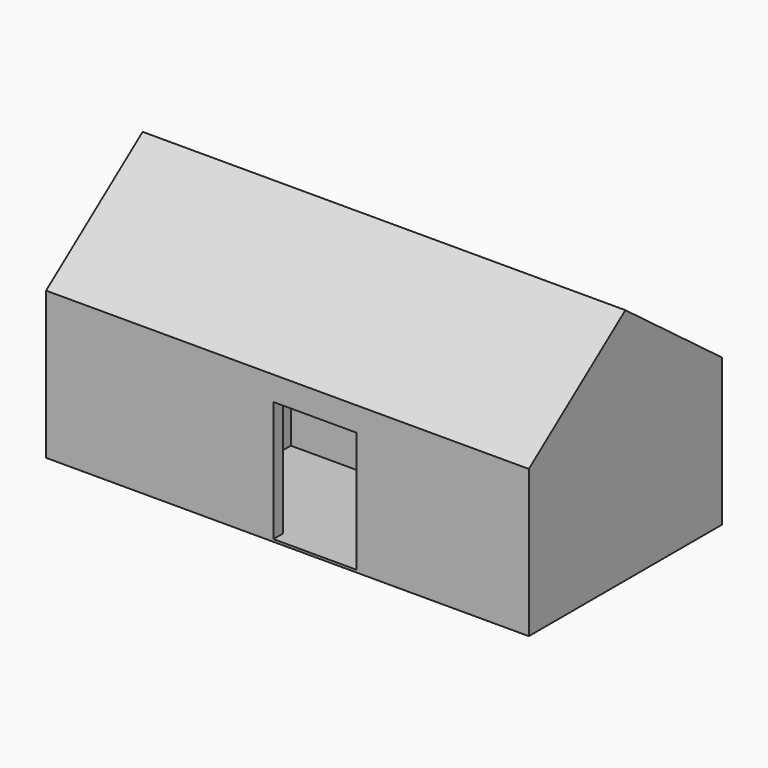
from build123d import *

# Parameters (mm, degrees)
F0_W     = 1.27
F0_H     = 5.7522215727
F0_W_2   = 6.1100403625
F0_H_2   = 1.27
F0_H_3   = 2.8992746613
F1_DEPTH = 12.7
F2_W     = 50.8
F2_H     = 25.4
F3_DEPTH = 2.54
F5_DEPTH = 50.8
F6_W     = 50.8
F6_H     = 25.4
F7_DEPTH = 0.254


with BuildPart() as f1:
    # F0 (on Top) → F1 (new body)
    with BuildSketch(Plane.XY):
        Polygon((27.4962335825, 5.3974989146), (-23.3037664175, 5.3974989146), (-23.3037664175, -20.0025010854), (0.6083042244, -20.0025010854), (0.6083042244, -18.7325010854), (-8.6501812091, -18.7325010854), (-9.9201812091, -18.7325010854), (-22.0337664175, -18.7325010854), (-22.0337664175, -4.8546069302), (-22.0337664175, -3.5846069302), (-22.0337664175, 4.1274989146), (-11.1901812091, 4.1274989146), (-9.9201812091, 4.1274989146), (3.0415252629, 4.1274989146), (3.0415252629, -1.2985680951), (4.3115252629, -1.2985680951), (4.3115252629, 4.1274989146), (26.2262335825, 4.1274989146), (26.2262335825, -4.8546069302), (26.2262335825, -6.1246069302), (26.2262335825, -18.7325010854), (9.3469638377, -18.7325010854), (9.3469638377, -20.0025010854), (27.4962335825, -20.0025010854), align=None)
        with Locations((-9.2851812091, -15.8563902991)):
            Rectangle(F0_W, F0_H)
        with Locations((23.1712134013, -5.4896069302)):
            Rectangle(F0_W_2, F0_H_2)
        with BuildLine():
            Line((-22.0337664175, -3.5846069302), (-22.0337664175, -4.8546069302))
            Line((-22.0337664175, -4.8546069302), (-11.1901812091, -4.8546069302))
            ThreePointArc((-11.1901812091, -4.8546069302), (-10.292155597, -5.2265813181), (-9.9201812091, -6.1246069302))
            Line((-9.9201812091, -6.1246069302), (-9.9201812091, -10.781369172))
            Line((-9.9201812091, -10.781369172), (-8.6501812091, -10.781369172))
            Line((-8.6501812091, -10.781369172), (-8.6501812091, -6.1246069302))
            Line((-8.6501812091, -6.1246069302), (16.8178286403, -6.1246069302))
            Line((16.8178286403, -6.1246069302), (16.8178286403, -4.8546069302))
            Line((16.8178286403, -4.8546069302), (4.3115252629, -4.8546069302))
            Line((4.3115252629, -4.8546069302), (4.3115252629, -2.6728871744))
            Line((4.3115252629, -2.6728871744), (3.0415252629, -2.6728871744))
            Line((3.0415252629, -2.6728871744), (3.0415252629, -4.8546069302))
            Line((3.0415252629, -4.8546069302), (-8.6501812091, -4.8546069302))
            ThreePointArc((-8.6501812091, -4.8546069302), (-9.5482068213, -4.4826325423), (-9.9201812091, -3.5846069302))
            Line((-9.9201812091, -3.5846069302), (-9.9201812091, -0.5181303131))
            Line((-9.9201812091, -0.5181303131), (-11.1901812091, -0.5181303131))
            Line((-11.1901812091, -0.5181303131), (-11.1901812091, -3.5846069302))
            Line((-11.1901812091, -3.5846069302), (-22.0337664175, -3.5846069302))
        make_face()
        with Locations((-10.5551812091, 2.6778615839)):
            Rectangle(F0_W, F0_H_3)
    extrude(amount=F1_DEPTH)

    # F2 (on face) → F3 (join)
    with BuildSketch(Plane.XY.offset(12.7)):
        with Locations((2.0962335825, -7.3025010854)):
            Rectangle(F2_W, F2_H)
    extrude(amount=F3_DEPTH)

    # F4 (on face) → F5 (join)
    with BuildSketch(Plane(origin=(-23.3037664175, 0, 0), x_dir=(0, -1, 0), z_dir=(-1, 0, 0))):
        Polygon((7.3025010854, 24.7875675559), (-5.3974989146, 15.24), (20.0025010854, 15.24), align=None)
    extrude(amount=-F5_DEPTH)

    # F6 (on face) → F7 (join)
    with BuildSketch(Plane(origin=(0, 0, 0), x_dir=(1, 0, 0), z_dir=(0, 0, -1))):
        with Locations((2.0962335825, 7.3025010854)):
            Rectangle(F6_W, F6_H)
    extrude(amount=F7_DEPTH)


solid = f1.part
